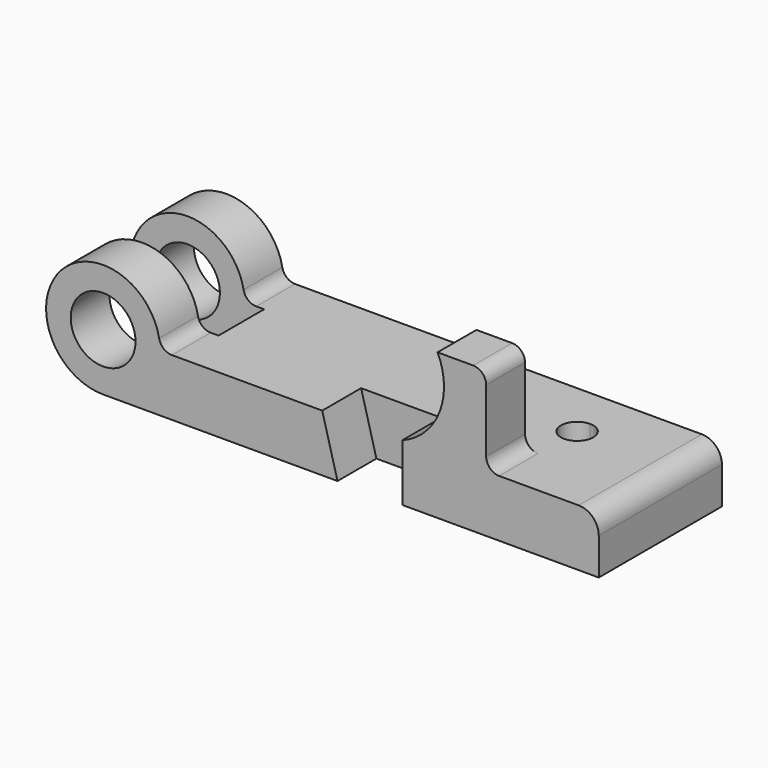
from build123d import *

# Parameters (mm, degrees)
F0_R      = 12.7
F1_DEPTH  = 30.1625
F2_DEPTH  = 30.1625
F3_DEPTH  = 30.1625
F5_DEPTH  = 19.05
F6_W      = 11.1125
F6_H      = 34.798
F7_DEPTH  = 50.8
F9_DEPTH  = 50.8
F10_R     = 7.874
F11_R     = 5.08
F12_R     = 5.08
F13_R     = 5.08
F14_W     = 51.4268837869
F14_H     = 22.3266
F15_DEPTH = 50.8
F16_W     = 22.3266
F16_H     = 9.652
F16_H_2   = 12.7
F17_DEPTH = 25.4
F18_DEPTH = 50.8
F19_W     = 12.7
F19_H     = 22.3266
F20_DEPTH = 25.4
F21_W     = 4.6221852958
F21_H     = 22.3266
F22_DEPTH = 25.4


with BuildPart() as f1:
    # F0 (on Front) → F1 (new body)
    with BuildSketch(Plane.XZ):
        with BuildLine():
            Line((85.852, 0), (22.352, 0))
            ThreePointArc((22.352, 0), (-15.8052507731, 15.8052507731), (0, -22.352))
            Line((0, -22.352), (91.8464, -22.352))
            Line((91.8464, -22.352), (85.852, 0))
        make_face()
        Circle(F0_R, mode=Mode.SUBTRACT)
        with BuildLine():
            Line((99.1109187887, 0), (85.852, 0))
            Line((85.852, 0), (91.8464, -22.352))
            Line((91.8464, -22.352), (117.2464, -22.352))
            Line((117.2464, -22.352), (117.2464, 0))
            ThreePointArc((117.2464, 0), (108.1786593943, -1.6737259497), (99.1109187887, 0))
        make_face()
        with BuildLine():
            Line((117.2464, 0), (99.1109187887, 0))
            ThreePointArc((99.1109187887, 0), (108.1786593943, -1.6737259497), (117.2464, 0))
        make_face()
        Polygon((117.2464, 0), (117.2464, -22.352), (194.2084, -22.352), (194.2084, 0), (150.0886, 0), align=None)
        with BuildLine():
            ThreePointArc((133.5786593943, 23.7262740503), (129.1009036739, 9.3242014804), (117.2464, 0))
            Line((117.2464, 0), (150.0886, 0))
            Line((150.0886, 0), (150.0886, 34.798))
            Line((150.0886, 34.798), (131.0386, 34.798))
            ThreePointArc((131.0386, 34.798), (132.9355017958, 29.4059531176), (133.5786593943, 23.7262740503))
        make_face()
    extrude(amount=F1_DEPTH)

    # F0 (on Front) → F2 (join)
    with BuildSketch(Plane.XZ):
        Polygon((117.2464, 0), (117.2464, -22.352), (194.2084, -22.352), (194.2084, 0), (150.0886, 0), align=None)
    extrude(amount=-F2_DEPTH)

    # F3 (add): a face of the model
    f3_faces = [f1.faces().sort_by_distance(p)[0] for p in [
        (45.5494625665, 0, -7.7681891644),
    ]]
    extrude(f3_faces, amount=F3_DEPTH)

    # F4 (on face) → F5 (cut)
    with BuildSketch(Plane.XZ.offset(30.1625)):
        Polygon((85.852, 0), (91.8464, -22.352), (117.2464, -22.352), (117.2464, 0), align=None)
    extrude(amount=-F5_DEPTH, mode=Mode.SUBTRACT)

    # F6 (on face) → F7 (cut)
    with BuildSketch(Plane.YZ.offset(150.0886)):
        with Locations((-5.55625, 17.399)):
            Rectangle(F6_W, F6_H)
    extrude(amount=-F7_DEPTH, mode=Mode.SUBTRACT)

    # F8 (on face) → F9 (cut)
    with BuildSketch(Plane.XY):
        with BuildLine():
            ThreePointArc((161.6964, 7.8105), (159.8365280605, 12.3006280605), (155.3464, 14.1605))
            ThreePointArc((155.3464, 14.1605), (150.8562719395, 3.3203719395), (161.6964, 7.8105))
        make_face()
    extrude(amount=-F9_DEPTH, mode=Mode.SUBTRACT)

    # F10
    f10_edges = [f1.edges().sort_by_distance(p)[0] for p in [
        (194.2084, 0, 0),
    ]]
    fillet(f10_edges, radius=F10_R)

    # F11
    f11_edges = [f1.edges().sort_by_distance(p)[0] for p in [
        (150.0886, -20.6375, 34.798),
    ]]
    fillet(f11_edges, radius=F11_R)

    # F12
    f12_edges = [f1.edges().sort_by_distance(p)[0] for p in [
        (22.352, 0, 0),
    ]]
    fillet(f12_edges, radius=F12_R)

    # F13
    f13_edges = [f1.edges().sort_by_distance(p)[0] for p in [
        (150.0886, -20.6375, 0),
    ]]
    fillet(f13_edges, radius=F13_R)

    # F14 (on face) → F15 (cut)
    with BuildSketch(Plane(origin=(0, 0, -22.352), x_dir=(1, 0, 0), z_dir=(0, 0, -1))):
        with Locations((-25.7134418935, 0)):
            Rectangle(F14_W, F14_H)
    extrude(amount=-F15_DEPTH, mode=Mode.SUBTRACT)

    # F16 (on face) → F17 (cut)
    with BuildSketch(Plane(origin=(0, 0, 0), x_dir=(0, -1, 0), z_dir=(-1, 0, 0))):
        with Locations((0, 17.526)):
            Rectangle(F16_W, F16_H)
        with Locations((0, 6.35)):
            Rectangle(F16_W, F16_H_2)
    extrude(amount=-F17_DEPTH, mode=Mode.SUBTRACT)

    # F18 (cut): a face of the model
    f18_faces = [f1.faces().sort_by_distance(p)[0] for p in [
        (19.05, 0, 0),
    ]]
    extrude(f18_faces, amount=-F18_DEPTH, mode=Mode.SUBTRACT)

    # F19 (on face) → F20 (cut)
    with BuildSketch(Plane(origin=(0, 0, -22.352), x_dir=(1, 0, 0), z_dir=(0, 0, -1))):
        with Locations((6.35, 0)):
            Rectangle(F19_W, F19_H)
    extrude(amount=-F20_DEPTH, mode=Mode.SUBTRACT)

    # F21 (on face) → F22 (cut)
    with BuildSketch(Plane(origin=(0, 0, -22.352), x_dir=(1, 0, 0), z_dir=(0, 0, -1))):
        with Locations((27.7110926479, 0)):
            Rectangle(F21_W, F21_H)
    extrude(amount=-F22_DEPTH, mode=Mode.SUBTRACT)


solid = f1.part
